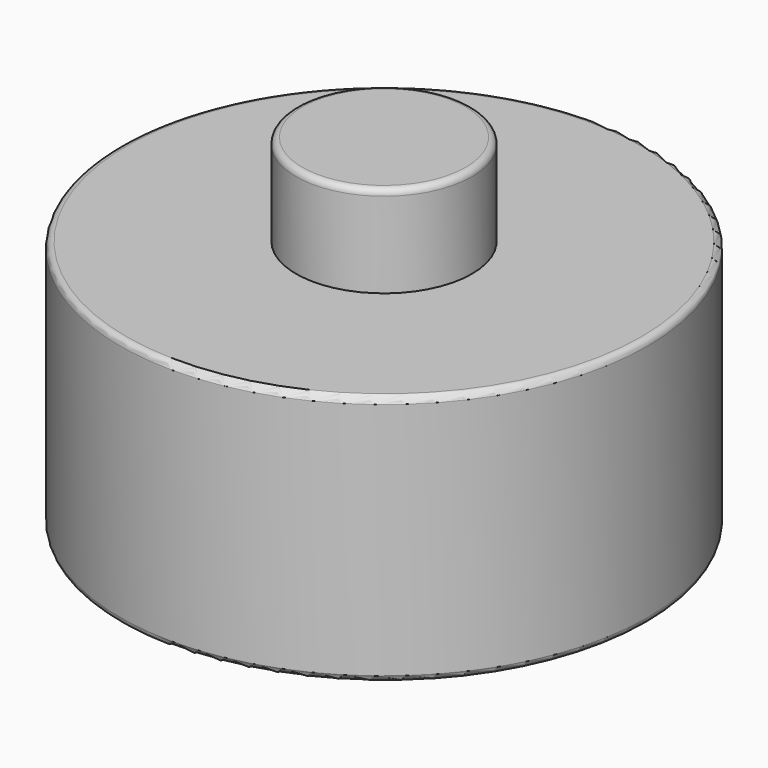
from build123d import *

# Parameters (mm, degrees)
F4_R     = 21
F5_DEPTH = 20
F6_R     = 7.9
F7_DEPTH = 10
F8_R     = 7
F9_DEPTH = 7.3
F10_R    = 0.5


with BuildPart() as f5:
    # F4 (on Top) → F5 (new body)
    with BuildSketch(Plane.XY):
        Circle(F4_R)
    extrude(amount=F5_DEPTH)

    # F6 (on Top) → F7 (cut)
    with BuildSketch(Plane.XY):
        Circle(F6_R)
    extrude(amount=F7_DEPTH, mode=Mode.SUBTRACT)

    # F8 (on face) → F9 (join)
    with BuildSketch(Plane.XY.offset(20)):
        Circle(F8_R)
    extrude(amount=F9_DEPTH)

    # F10
    f10_edges = [f5.edges().sort_by_distance(p)[0] for p in [
        (-7, 0, 27.3),
        (-21, 0, 20),
        (-21, 0, 0),
        (-7.9, 0, 0),
        (-7.9, 0, 10),
    ]]
    fillet(f10_edges, radius=F10_R)


solid = f5.part
